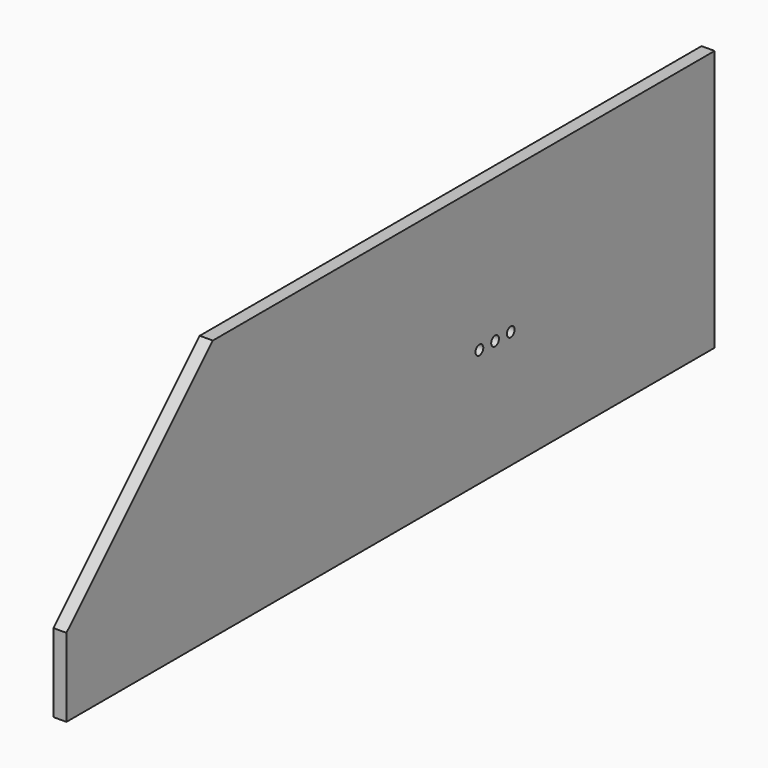
from build123d import *

# Parameters (mm, degrees)
F1_DEPTH = 6.35
F2_R     = 2.35839
F3_DEPTH = 6.351


with BuildPart() as f1:
    # F0 (on Right) → F1 (new body)
    with BuildSketch(Plane.YZ):
        Polygon((-196.85, 38.1), (-196.85, 0), (196.85, 0), (196.85, 127), (-107.95, 127), align=None)
    extrude(amount=F1_DEPTH)

    # F2 (on face) → F3 (cut, through all)
    with BuildSketch(Plane.YZ.offset(6.35)):
        with Locations((53.975, 57.15)):
            Circle(F2_R)
        with Locations((63.5, 57.15)):
            Circle(F2_R)
        with Locations((73.025, 57.15)):
            Circle(F2_R)
    extrude(amount=-F3_DEPTH, mode=Mode.SUBTRACT)


solid = f1.part
